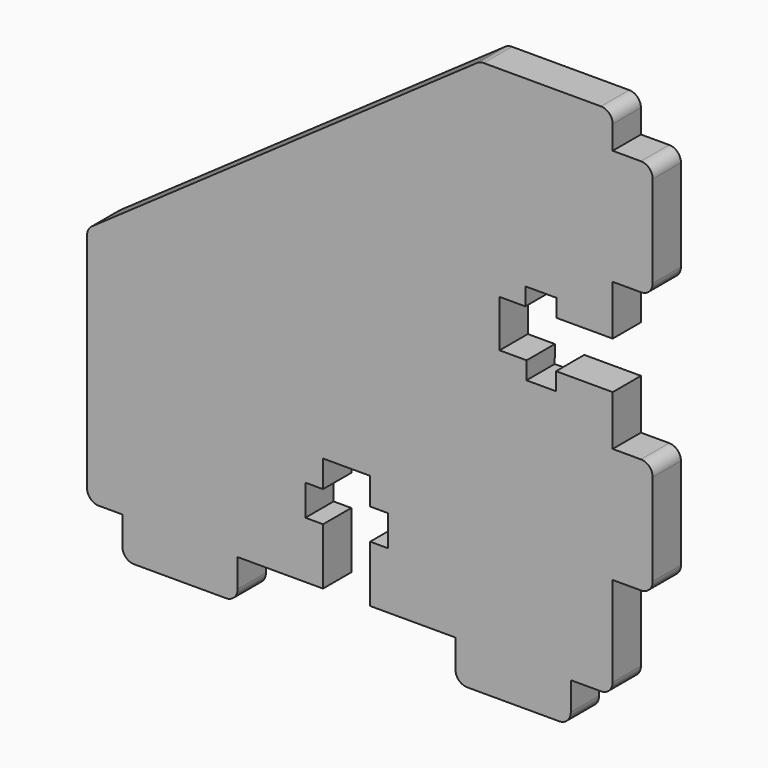
from build123d import *

# Parameters (mm, degrees)
F1_DEPTH = 3
F2_DEPTH = 3


with BuildPart() as f1:
    # F0 (on Front) → F1 (new body)
    with BuildSketch(Plane.XZ):
        with BuildLine():
            ThreePointArc((19.990009, 62.112021), (19.697116, 62.819128), (18.990009, 63.112021))
            Line((18.990009, 63.112021), (16.590009, 63.112021))
            Line((16.590009, 63.112021), (16.590009, 65.112021))
            ThreePointArc((16.590009, 65.112021), (16.297116, 65.819128), (15.590009, 66.112021))
            Line((15.590009, 66.112021), (5.636452, 66.112021))
            ThreePointArc((5.636452, 66.112021), (5.336246, 66.065896), (5.063734, 65.931774))
            Line((5.063734, 65.931774), (-27.642709, 43.081523))
            ThreePointArc((-27.642709, 43.081523), (-27.95676, 42.723984), (-28.069991, 42.261771))
            Line((-28.069991, 42.261771), (-28.069991, 23.362021))
            ThreePointArc((-28.069991, 23.362021), (-27.777098, 22.654914), (-27.069991, 22.362021))
            Line((-27.069991, 22.362021), (-25.069991, 22.362021))
            Line((-25.069991, 22.362021), (-25.069991, 19.962021))
            ThreePointArc((-25.069991, 19.962021), (-24.777098, 19.254914), (-24.069991, 18.962021))
            Line((-24.069991, 18.962021), (-16.269991, 18.962021))
            ThreePointArc((-16.269991, 18.962021), (-15.562884, 19.254914), (-15.269991, 19.962021))
            Line((-15.269991, 19.962021), (-15.269991, 22.362021))
            Line((-15.269991, 22.362021), (-8.019991, 22.362021))
            Line((-8.019991, 22.362021), (-8.019991, 27.176162))
            Line((-8.019991, 27.176162), (-9.519991, 27.176162))
            Line((-9.519991, 27.176162), (-9.519991, 29.800974))
            Line((-9.519991, 29.800974), (-8.019991, 29.800974))
            Line((-8.019991, 29.800974), (-8.019991, 32.096211))
            Line((-8.019991, 32.096211), (-4.019991, 32.096211))
            Line((-4.019991, 32.096211), (-4.019991, 29.800974))
            Line((-4.019991, 29.800974), (-2.519991, 29.800974))
            Line((-2.519991, 29.800974), (-2.519991, 27.176162))
            Line((-2.519991, 27.176162), (-4.019991, 27.176162))
            Line((-4.019991, 27.176162), (-4.019991, 22.362021))
            Line((-4.019991, 22.362021), (3.230009, 22.362021))
            Line((3.230009, 22.362021), (3.230009, 19.962021))
            ThreePointArc((3.230009, 19.962021), (3.522902, 19.254914), (4.230009, 18.962021))
            Line((4.230009, 18.962021), (12.030009, 18.962021))
            ThreePointArc((12.030009, 18.962021), (12.737116, 19.254914), (13.030009, 19.962021))
            Line((13.030009, 19.962021), (13.030009, 22.362021))
            Line((13.030009, 22.362021), (15.590009, 22.362021))
            ThreePointArc((15.590009, 22.362021), (16.297116, 22.654914), (16.590009, 23.362021))
            Line((16.590009, 23.362021), (16.590009, 31.012021))
            Line((16.590009, 31.012021), (18.990009, 31.012021))
            ThreePointArc((18.990009, 31.012021), (19.697116, 31.304914), (19.990009, 32.012021))
            Line((19.990009, 32.012021), (19.990009, 39.812021))
            ThreePointArc((19.990009, 39.812021), (19.697116, 40.519128), (18.990009, 40.812021))
            Line((18.990009, 40.812021), (16.590009, 40.812021))
            Line((16.590009, 40.812021), (16.590009, 45.062021))
            Line((16.590009, 45.062021), (11.775868, 45.062021))
            Line((11.775868, 45.062021), (11.763018, 43.562081))
            Line((11.763018, 43.562081), (9.263302, 43.562081))
            Line((9.263302, 43.562081), (9.276151, 45.062026))
            Line((9.276151, 45.062026), (6.980914, 45.062026))
            Line((6.980914, 45.062026), (6.971767, 49.062016))
            Line((6.971767, 49.062016), (9.171387, 49.062016))
            Line((9.171387, 49.062016), (9.171387, 50.562016))
            Line((9.171387, 50.562016), (11.796198, 50.562016))
            Line((11.796198, 50.562016), (11.796198, 49.062021))
            Line((11.796198, 49.062021), (16.590009, 49.062021))
            Line((16.590009, 49.062021), (16.590009, 53.312021))
            Line((16.590009, 53.312021), (18.990009, 53.312021))
            ThreePointArc((18.990009, 53.312021), (19.697116, 53.604914), (19.990009, 54.312021))
            Line((19.990009, 54.312021), (19.990009, 62.112021))
        make_face()
    extrude(amount=F1_DEPTH)

    # F0 (on Front) → F2 (join)
    with BuildSketch(Plane.XZ):
        with BuildLine():
            ThreePointArc((19.990009, 62.112021), (19.697116, 62.819128), (18.990009, 63.112021))
            Line((18.990009, 63.112021), (16.590009, 63.112021))
            Line((16.590009, 63.112021), (16.590009, 65.112021))
            ThreePointArc((16.590009, 65.112021), (16.297116, 65.819128), (15.590009, 66.112021))
            Line((15.590009, 66.112021), (5.636452, 66.112021))
            ThreePointArc((5.636452, 66.112021), (5.336246, 66.065896), (5.063734, 65.931774))
            Line((5.063734, 65.931774), (-27.642709, 43.081523))
            ThreePointArc((-27.642709, 43.081523), (-27.95676, 42.723984), (-28.069991, 42.261771))
            Line((-28.069991, 42.261771), (-28.069991, 23.362021))
            ThreePointArc((-28.069991, 23.362021), (-27.777098, 22.654914), (-27.069991, 22.362021))
            Line((-27.069991, 22.362021), (-25.069991, 22.362021))
            Line((-25.069991, 22.362021), (-25.069991, 19.962021))
            ThreePointArc((-25.069991, 19.962021), (-24.777098, 19.254914), (-24.069991, 18.962021))
            Line((-24.069991, 18.962021), (-16.269991, 18.962021))
            ThreePointArc((-16.269991, 18.962021), (-15.562884, 19.254914), (-15.269991, 19.962021))
            Line((-15.269991, 19.962021), (-15.269991, 22.362021))
            Line((-15.269991, 22.362021), (-8.019991, 22.362021))
            Line((-8.019991, 22.362021), (-8.019991, 27.176162))
            Line((-8.019991, 27.176162), (-9.519991, 27.176162))
            Line((-9.519991, 27.176162), (-9.519991, 29.800974))
            Line((-9.519991, 29.800974), (-8.019991, 29.800974))
            Line((-8.019991, 29.800974), (-8.019991, 32.096211))
            Line((-8.019991, 32.096211), (-4.019991, 32.096211))
            Line((-4.019991, 32.096211), (-4.019991, 29.800974))
            Line((-4.019991, 29.800974), (-2.519991, 29.800974))
            Line((-2.519991, 29.800974), (-2.519991, 27.176162))
            Line((-2.519991, 27.176162), (-4.019991, 27.176162))
            Line((-4.019991, 27.176162), (-4.019991, 22.362021))
            Line((-4.019991, 22.362021), (3.230009, 22.362021))
            Line((3.230009, 22.362021), (3.230009, 19.962021))
            ThreePointArc((3.230009, 19.962021), (3.522902, 19.254914), (4.230009, 18.962021))
            Line((4.230009, 18.962021), (12.030009, 18.962021))
            ThreePointArc((12.030009, 18.962021), (12.737116, 19.254914), (13.030009, 19.962021))
            Line((13.030009, 19.962021), (13.030009, 22.362021))
            Line((13.030009, 22.362021), (15.590009, 22.362021))
            ThreePointArc((15.590009, 22.362021), (16.297116, 22.654914), (16.590009, 23.362021))
            Line((16.590009, 23.362021), (16.590009, 31.012021))
            Line((16.590009, 31.012021), (18.990009, 31.012021))
            ThreePointArc((18.990009, 31.012021), (19.697116, 31.304914), (19.990009, 32.012021))
            Line((19.990009, 32.012021), (19.990009, 39.812021))
            ThreePointArc((19.990009, 39.812021), (19.697116, 40.519128), (18.990009, 40.812021))
            Line((18.990009, 40.812021), (16.590009, 40.812021))
            Line((16.590009, 40.812021), (16.590009, 45.062021))
            Line((16.590009, 45.062021), (11.775868, 45.062021))
            Line((11.775868, 45.062021), (11.763018, 43.562081))
            Line((11.763018, 43.562081), (9.263302, 43.562081))
            Line((9.263302, 43.562081), (9.276151, 45.062026))
            Line((9.276151, 45.062026), (6.980914, 45.062026))
            Line((6.980914, 45.062026), (6.971767, 49.062016))
            Line((6.971767, 49.062016), (9.171387, 49.062016))
            Line((9.171387, 49.062016), (9.171387, 50.562016))
            Line((9.171387, 50.562016), (11.796198, 50.562016))
            Line((11.796198, 50.562016), (11.796198, 49.062021))
            Line((11.796198, 49.062021), (16.590009, 49.062021))
            Line((16.590009, 49.062021), (16.590009, 53.312021))
            Line((16.590009, 53.312021), (18.990009, 53.312021))
            ThreePointArc((18.990009, 53.312021), (19.697116, 53.604914), (19.990009, 54.312021))
            Line((19.990009, 54.312021), (19.990009, 62.112021))
        make_face()
    extrude(amount=F2_DEPTH)


solid = f1.part
